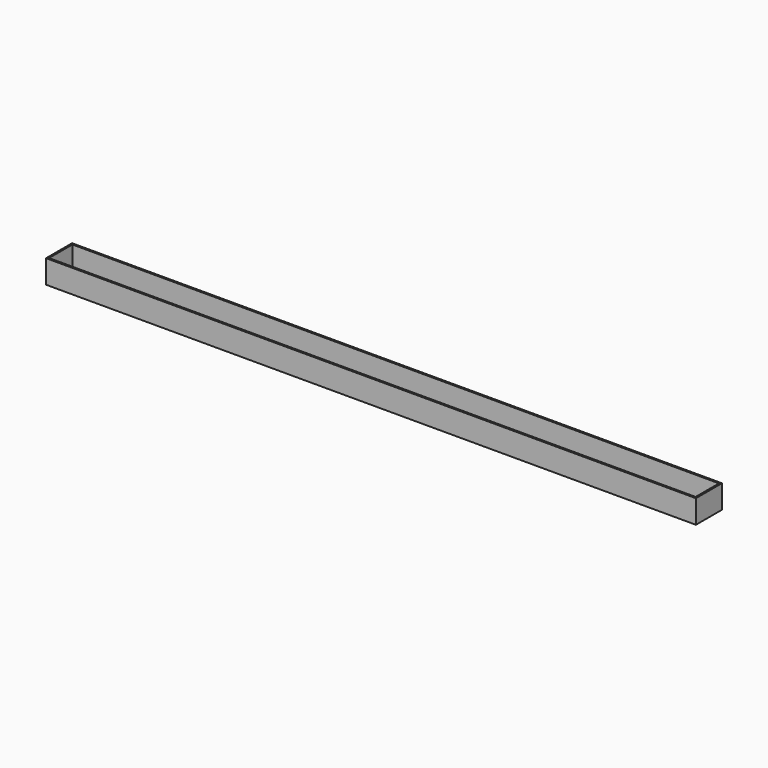
from build123d import *

# Parameters (mm, degrees)
F0_W     = 100
F0_H     = 5
F1_DEPTH = 0.6
F2_W     = 100
F2_H     = 5
F4_DEPTH = 3
F3_W     = 99.5
F3_H     = 4.5
F5_DEPTH = 25


with BuildPart() as f1:
    # F0 (on Top) → F1 (new body)
    with BuildSketch(Plane.XY):
        Rectangle(F0_W, F0_H)
    extrude(amount=F1_DEPTH)

    # F2 (on face) → F4 (join)
    with BuildSketch(Plane.XY.offset(0.6)):
        Rectangle(F2_W, F2_H)
    extrude(amount=F4_DEPTH)

    # F3 (on face) → F5 (cut)
    with BuildSketch(Plane.XY.offset(0.6)):
        Rectangle(F3_W, F3_H)
    extrude(amount=F5_DEPTH, mode=Mode.SUBTRACT)


solid = f1.part
